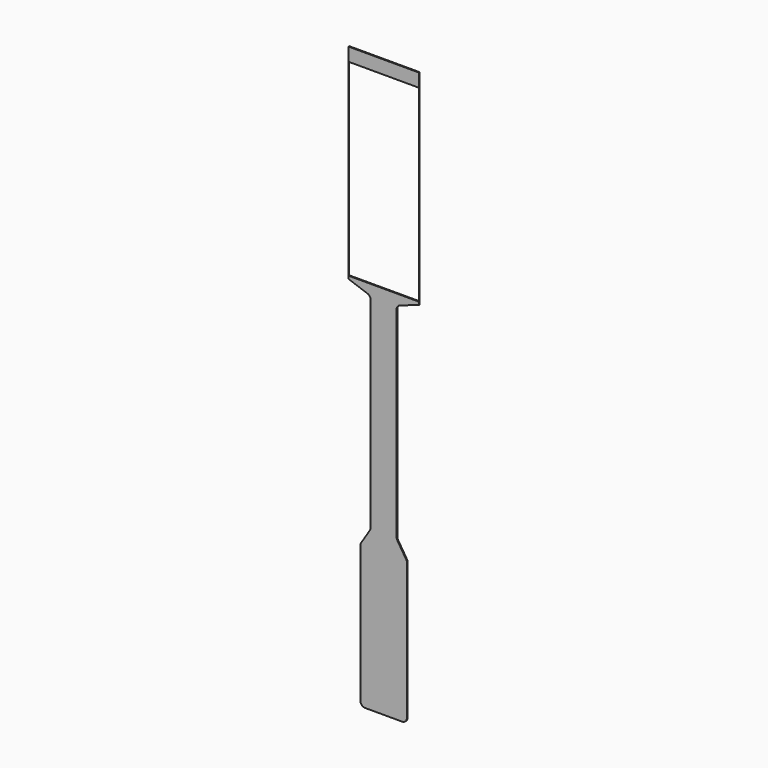
from build123d import *

# Parameters (mm, degrees)
F1_DEPTH = 1


with BuildPart() as f1:
    # F0 (on Front) → F1 (new body)
    with BuildSketch(Plane.XZ):
        with BuildLine():
            Line((0, 220.644568), (-38.1, 220.644568))
            Line((-38.1, 220.644568), (-38.1, 0))
            Line((-38.1, 0), (-17.344685, -7.281957))
            ThreePointArc((-17.344685, -7.281957), (-14.920994, -9.108337), (-14, -12))
            Line((-14, -12), (-14, -228.484633))
            ThreePointArc((-14, -228.484633), (-14.196733, -229.873384), (-14.771451, -231.152849))
            Line((-14.771451, -231.152849), (-25, -247.362898))
            Line((-25, -247.362898), (-25, -396.655432))
            ThreePointArc((-25, -396.655432), (-23.535534, -400.190966), (-20, -401.655432))
            Line((-20, -401.655432), (0, -401.655432))
            Line((0, -401.655432), (20, -401.655432))
            ThreePointArc((20, -401.655432), (23.535534, -400.190966), (25, -396.655432))
            Line((25, -396.655432), (25, -247.362898))
            Line((25, -247.362898), (14.771451, -231.152849))
            ThreePointArc((14.771451, -231.152849), (14.196733, -229.873384), (14, -228.484633))
            Line((14, -228.484633), (14, -12))
            ThreePointArc((14, -12), (14.920994, -9.108337), (17.344685, -7.281957))
            Line((17.344685, -7.281957), (38.1, 0))
            Line((38.1, 0), (38.1, 220.644568))
            Line((38.1, 220.644568), (0, 220.644568))
        make_face()
        Polygon((-38, 206.241385), (0, 206.241385), (38, 206.241385), (38, 3.041385), (0, 3.041385), (-38, 3.041385), align=None, mode=Mode.SUBTRACT)
    extrude(amount=F1_DEPTH)


solid = f1.part
